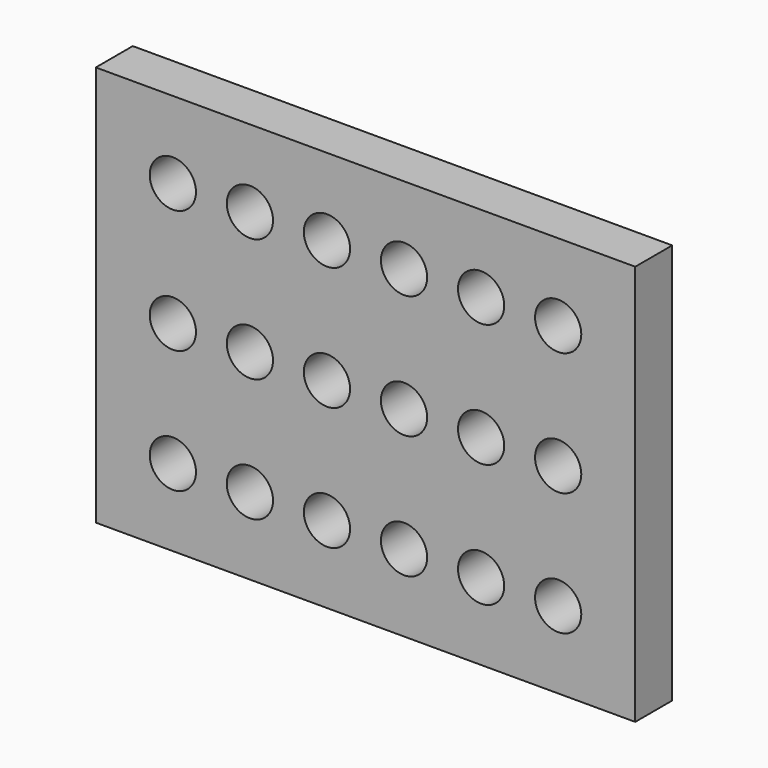
from build123d import *

# Parameters (mm, degrees)
F0_W     = 175
F0_H     = 130
F0_R     = 7.5
F1_DEPTH = 15


with BuildPart() as f1:
    # F0 (on Front) → F1 (new body)
    with BuildSketch(Plane.XZ):
        Rectangle(F0_W, F0_H)
        with Locations((-62.5, -40)):
            Circle(F0_R, mode=Mode.SUBTRACT)
        with Locations((-37.5, -40)):
            Circle(F0_R, mode=Mode.SUBTRACT)
        with Locations((-12.5, -40)):
            Circle(F0_R, mode=Mode.SUBTRACT)
        with Locations((12.5, -40)):
            Circle(F0_R, mode=Mode.SUBTRACT)
        with Locations((37.5, -40)):
            Circle(F0_R, mode=Mode.SUBTRACT)
        with Locations((62.5, -40)):
            Circle(F0_R, mode=Mode.SUBTRACT)
        with Locations((-62.5, 0)):
            Circle(F0_R, mode=Mode.SUBTRACT)
        with Locations((-37.5, 0)):
            Circle(F0_R, mode=Mode.SUBTRACT)
        with Locations((-12.5, 0)):
            Circle(F0_R, mode=Mode.SUBTRACT)
        with Locations((-62.5, 40)):
            Circle(F0_R, mode=Mode.SUBTRACT)
        with Locations((-37.5, 40)):
            Circle(F0_R, mode=Mode.SUBTRACT)
        with Locations((-12.5, 40)):
            Circle(F0_R, mode=Mode.SUBTRACT)
        with Locations((12.5, 0)):
            Circle(F0_R, mode=Mode.SUBTRACT)
        with Locations((37.5, 0)):
            Circle(F0_R, mode=Mode.SUBTRACT)
        with Locations((62.5, 0)):
            Circle(F0_R, mode=Mode.SUBTRACT)
        with Locations((12.5, 40)):
            Circle(F0_R, mode=Mode.SUBTRACT)
        with Locations((37.5, 40)):
            Circle(F0_R, mode=Mode.SUBTRACT)
        with Locations((62.5, 40)):
            Circle(F0_R, mode=Mode.SUBTRACT)
    extrude(amount=F1_DEPTH)


solid = f1.part
